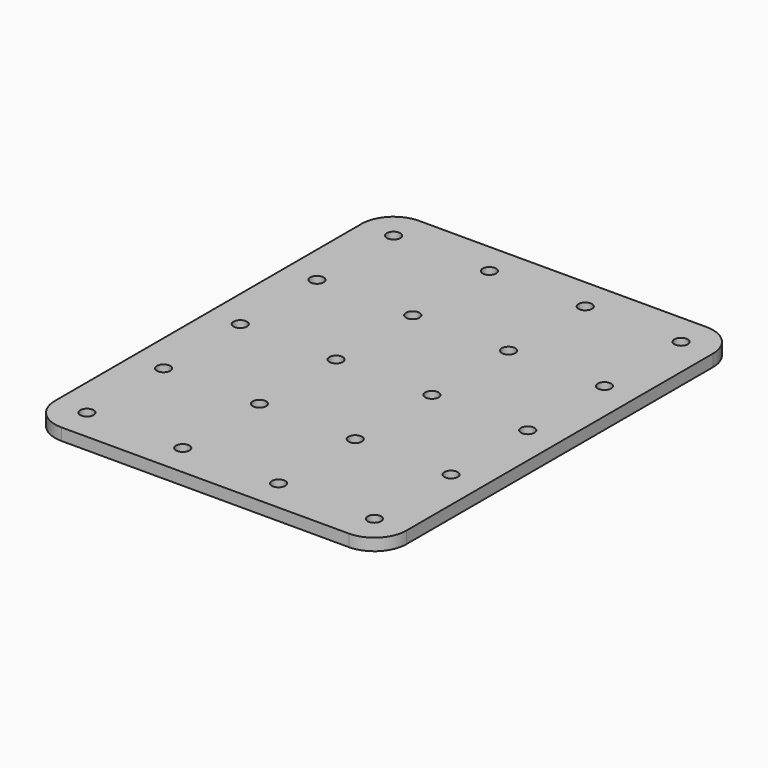
from build123d import *

# Parameters (mm, degrees)
F1_R     = 1.778
F2_DEPTH = 3.175
F3_R     = 1.778
F4_DEPTH = 3.175
F5_R     = 1.778
F6_DEPTH = 3.175


with BuildPart() as f2:
    # F1 (on Top) → F2 (new body, through all)
    with BuildSketch(Plane.XY):
        with BuildLine():
            Line((76.2, 33.866667), (0, 33.866667))
            ThreePointArc((0, 33.866667), (-5.986837, 31.386837), (-8.466667, 25.4))
            Line((-8.466667, 25.4), (-8.466667, 0))
            ThreePointArc((-8.466667, 0), (-5.986837, -5.986837), (0, -8.466667))
            Line((0, -8.466667), (76.2, -8.466667))
            ThreePointArc((76.2, -8.466667), (82.186837, -5.986837), (84.666667, 0))
            Line((84.666667, 0), (84.666667, 25.4))
            ThreePointArc((84.666667, 25.4), (82.186837, 31.386837), (76.2, 33.866667))
        make_face()
        Circle(F1_R, mode=Mode.SUBTRACT)
        with Locations((25.4, 0)):
            Circle(F1_R, mode=Mode.SUBTRACT)
        with Locations((50.8, 0)):
            Circle(F1_R, mode=Mode.SUBTRACT)
        with Locations((76.2, 0)):
            Circle(F1_R, mode=Mode.SUBTRACT)
        with Locations((0, 25.4)):
            Circle(F1_R, mode=Mode.SUBTRACT)
        with Locations((25.4, 25.4)):
            Circle(F1_R, mode=Mode.SUBTRACT)
        with Locations((50.8, 25.4)):
            Circle(F1_R, mode=Mode.SUBTRACT)
        with Locations((76.2, 25.4)):
            Circle(F1_R, mode=Mode.SUBTRACT)
    extrude(amount=-F2_DEPTH)


with BuildPart() as f4:
    # F3 (on Top) → F4 (new body, through all)
    with BuildSketch(Plane.XY):
        with BuildLine():
            Line((50.8, 84.666667), (0, 84.666667))
            ThreePointArc((0, 84.666667), (-5.986837, 82.186837), (-8.466667, 76.2))
            Line((-8.466667, 76.2), (-8.466667, 0))
            ThreePointArc((-8.466667, 0), (-5.986837, -5.986837), (0, -8.466667))
            Line((0, -8.466667), (50.8, -8.466667))
            ThreePointArc((50.8, -8.466667), (56.786837, -5.986837), (59.266667, 0))
            Line((59.266667, 0), (59.266667, 76.2))
            ThreePointArc((59.266667, 76.2), (56.786837, 82.186837), (50.8, 84.666667))
        make_face()
        Circle(F3_R, mode=Mode.SUBTRACT)
        with Locations((0, 25.4)):
            Circle(F3_R, mode=Mode.SUBTRACT)
        with Locations((25.4, 0)):
            Circle(F3_R, mode=Mode.SUBTRACT)
        with Locations((50.8, 0)):
            Circle(F3_R, mode=Mode.SUBTRACT)
        with Locations((25.4, 25.4)):
            Circle(F3_R, mode=Mode.SUBTRACT)
        with Locations((50.8, 25.4)):
            Circle(F3_R, mode=Mode.SUBTRACT)
        with Locations((0, 50.8)):
            Circle(F3_R, mode=Mode.SUBTRACT)
        with Locations((0, 76.2)):
            Circle(F3_R, mode=Mode.SUBTRACT)
        with Locations((25.4, 50.8)):
            Circle(F3_R, mode=Mode.SUBTRACT)
        with Locations((50.8, 50.8)):
            Circle(F3_R, mode=Mode.SUBTRACT)
        with Locations((25.4, 76.2)):
            Circle(F3_R, mode=Mode.SUBTRACT)
        with Locations((50.8, 76.2)):
            Circle(F3_R, mode=Mode.SUBTRACT)
    extrude(amount=-F4_DEPTH)


with BuildPart() as f6:
    # F5 (on Top) → F6 (new body, through all)
    with BuildSketch(Plane.XY):
        with BuildLine():
            Line((76.2, 110.066667), (0, 110.066667))
            ThreePointArc((0, 110.066667), (-5.986837, 107.586837), (-8.466667, 101.6))
            Line((-8.466667, 101.6), (-8.466667, 0))
            ThreePointArc((-8.466667, 0), (-5.986837, -5.986837), (0, -8.466667))
            Line((0, -8.466667), (76.2, -8.466667))
            ThreePointArc((76.2, -8.466667), (82.186837, -5.986837), (84.666667, 0))
            Line((84.666667, 0), (84.666667, 101.6))
            ThreePointArc((84.666667, 101.6), (82.186837, 107.586837), (76.2, 110.066667))
        make_face()
        Circle(F5_R, mode=Mode.SUBTRACT)
        with Locations((25.4, 0)):
            Circle(F5_R, mode=Mode.SUBTRACT)
        with Locations((0, 25.4)):
            Circle(F5_R, mode=Mode.SUBTRACT)
        with Locations((25.4, 25.4)):
            Circle(F5_R, mode=Mode.SUBTRACT)
        with Locations((50.8, 0)):
            Circle(F5_R, mode=Mode.SUBTRACT)
        with Locations((76.2, 0)):
            Circle(F5_R, mode=Mode.SUBTRACT)
        with Locations((50.8, 25.4)):
            Circle(F5_R, mode=Mode.SUBTRACT)
        with Locations((76.2, 25.4)):
            Circle(F5_R, mode=Mode.SUBTRACT)
        with Locations((0, 50.8)):
            Circle(F5_R, mode=Mode.SUBTRACT)
        with Locations((0, 76.2)):
            Circle(F5_R, mode=Mode.SUBTRACT)
        with Locations((25.4, 50.8)):
            Circle(F5_R, mode=Mode.SUBTRACT)
        with Locations((25.4, 76.2)):
            Circle(F5_R, mode=Mode.SUBTRACT)
        with Locations((0, 101.6)):
            Circle(F5_R, mode=Mode.SUBTRACT)
        with Locations((25.4, 101.6)):
            Circle(F5_R, mode=Mode.SUBTRACT)
        with Locations((50.8, 50.8)):
            Circle(F5_R, mode=Mode.SUBTRACT)
        with Locations((50.8, 76.2)):
            Circle(F5_R, mode=Mode.SUBTRACT)
        with Locations((76.2, 50.8)):
            Circle(F5_R, mode=Mode.SUBTRACT)
        with Locations((76.2, 76.2)):
            Circle(F5_R, mode=Mode.SUBTRACT)
        with Locations((50.8, 101.6)):
            Circle(F5_R, mode=Mode.SUBTRACT)
        with Locations((76.2, 101.6)):
            Circle(F5_R, mode=Mode.SUBTRACT)
    extrude(amount=-F6_DEPTH)


solid = Compound([f2.part, f4.part, f6.part])
